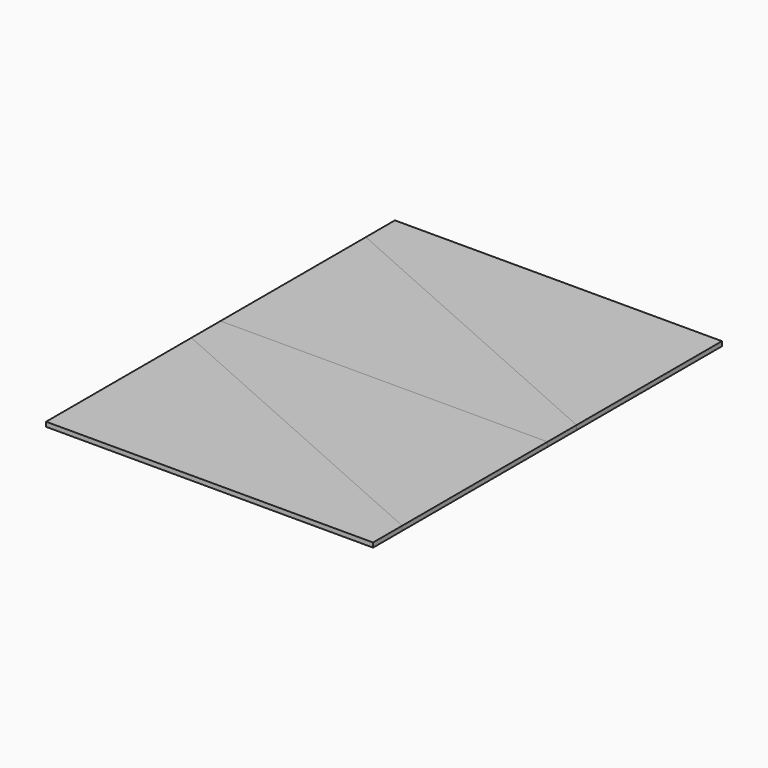
from build123d import *

# Parameters (mm, degrees)
F1_DEPTH = 12.7
F2_DEPTH = 12.7
F3_DEPTH = 12.7
F4_DEPTH = 12.7


with BuildPart() as f1:
    # F0 (on Top) → F1 (new body)
    with BuildSketch(Plane.XY):
        Polygon((-292.512335, 609.6), (-1206.912335, 609.6), (-1206.912335, 508), (-292.512335, 101.6), align=None)
    extrude(amount=F1_DEPTH)


with BuildPart() as f2:
    # F0 (on Top) → F2 (new body)
    with BuildSketch(Plane.XY):
        Polygon((-292.512335, 101.6), (-1206.912335, 508), (-1206.912335, 0), (-292.512335, 0), align=None)
    extrude(amount=F2_DEPTH)


with BuildPart() as f3:
    # F0 (on Top) → F3 (new body)
    with BuildSketch(Plane.XY):
        Polygon((-292.512335, 0), (-1206.912335, 0), (-1206.912335, -101.6), (-292.512335, -508), align=None)
    extrude(amount=F3_DEPTH)


with BuildPart() as f4:
    # F0 (on Top) → F4 (new body)
    with BuildSketch(Plane.XY):
        Polygon((-292.512335, -508), (-1206.912335, -101.6), (-1206.912335, -609.6), (-292.512335, -609.6), align=None)
    extrude(amount=F4_DEPTH)


solid = Compound([f1.part, f2.part, f3.part, f4.part])
